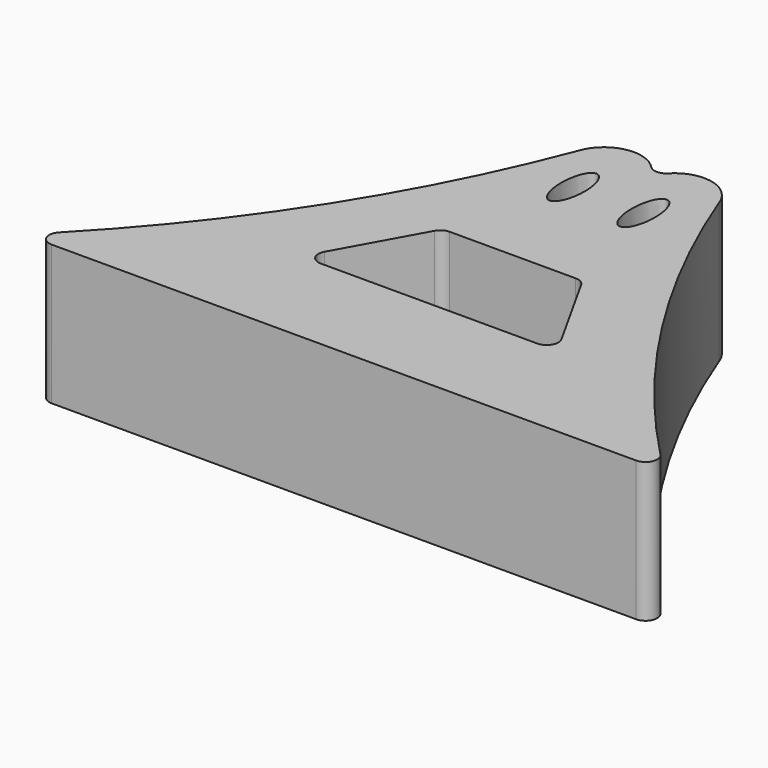
from build123d import *

# Parameters (mm, degrees)
F1_DEPTH = 12


with BuildPart() as f1:
    # F0 (on Top) → F1 (new body)
    with BuildSketch(Plane.XY):
        with BuildLine():
            ThreePointArc((38.883236, -57.630049), (38.680194, -58.715983), (39.601111, -59.326222))
            Line((39.601111, -59.326222), (89.788351, -59.326222))
            ThreePointArc((89.788351, -59.326222), (90.709267, -58.715983), (90.506225, -57.630049))
            ThreePointArc((90.506225, -57.630049), (79.047917, -43.134353), (70.735935, -26.63196))
            ThreePointArc((70.735935, -26.63196), (68.414883, -24.53035), (65.416859, -25.433623))
            ThreePointArc((65.416859, -25.433623), (64.694732, -25.741861), (63.972606, -25.433622))
            ThreePointArc((63.972606, -25.433622), (60.974575, -24.530342), (58.653521, -26.631963))
            ThreePointArc((58.653521, -26.631963), (50.341541, -43.134354), (38.883236, -57.630049))
        make_face()
        with BuildLine():
            ThreePointArc((58.397036, -41.720599), (58.764187, -41.342967), (59.272289, -41.204264))
            Line((59.272289, -41.204264), (70.095476, -41.204264))
            ThreePointArc((70.095476, -41.204264), (70.601632, -41.341821), (70.968536, -41.71665))
            Line((70.968536, -41.71665), (74.878112, -48.71665))
            ThreePointArc((74.878112, -48.71665), (74.867495, -49.710419), (74.005052, -50.204264))
            Line((74.005052, -50.204264), (55.404087, -50.204264))
            ThreePointArc((55.404087, -50.204264), (54.54279, -49.712365), (54.528834, -48.720599))
            Line((54.528834, -48.720599), (58.397036, -41.720599))
        make_face(mode=Mode.SUBTRACT)
        with BuildLine():
            add(Edge.make_bspline(
                [(61.674128, -28.465438), (59.93012, -28.465438), (60.802124, -32.22223), (61.674128, -35.979022), (62.546132, -32.22223), (63.418136, -28.465438), (61.674128, -28.465438)],
                knots=[0, 0, 0, 2.094395, 2.094395, 4.18879, 4.18879, 6.283185, 6.283185, 6.283185], degree=2, weights=[1, 0.5, 1, 0.5, 1, 0.5, 1]))
        make_face(mode=Mode.SUBTRACT)
        with BuildLine():
            add(Edge.make_bspline(
                [(67.715336, -28.465442), (65.971327, -28.465442), (66.843331, -32.222234), (67.715336, -35.979025), (68.58734, -32.222234), (69.459344, -28.465442), (67.715336, -28.465442)],
                knots=[0, 0, 0, 2.094395, 2.094395, 4.18879, 4.18879, 6.283185, 6.283185, 6.283185], degree=2, weights=[1, 0.5, 1, 0.5, 1, 0.5, 1]))
        make_face(mode=Mode.SUBTRACT)
    extrude(amount=F1_DEPTH)


solid = f1.part
